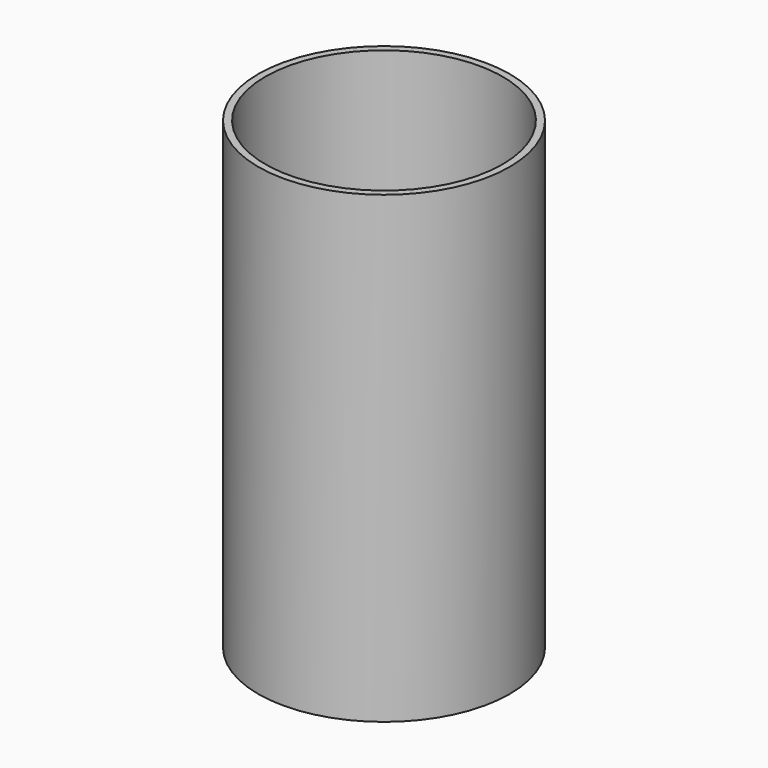
from build123d import *

# Parameters (mm, degrees)
F0_R     = 13.5255
F1_DEPTH = 49.911
F2_R     = 12.7635
F3_DEPTH = 49.149
F4_R     = 2.54
F4_R_2   = 1.5875
F5_DEPTH = 5.842
F6_R     = 1.5875
F7_DEPTH = 49.912


with BuildPart() as f1:
    # F0 (on Top) → F1 (new body)
    with BuildSketch(Plane.XY):
        Circle(F0_R)
    extrude(amount=-F1_DEPTH)

    # F2 (on face) → F3 (cut)
    with BuildSketch(Plane.XY):
        Circle(F2_R)
    extrude(amount=-F3_DEPTH, mode=Mode.SUBTRACT)

    # F4 (on face) → F5 (join)
    with BuildSketch(Plane(origin=(0, 0, -49.911), x_dir=(1, 0, 0), z_dir=(0, 0, -1))):
        Circle(F4_R)
        Circle(F4_R_2, mode=Mode.SUBTRACT)
    extrude(amount=-F5_DEPTH)

    # F6 (on face) → F7 (cut, through all)
    with BuildSketch(Plane(origin=(0, 0, -49.911), x_dir=(1, 0, 0), z_dir=(0, 0, -1))):
        Circle(F6_R)
    extrude(amount=-F7_DEPTH, mode=Mode.SUBTRACT)


solid = f1.part
